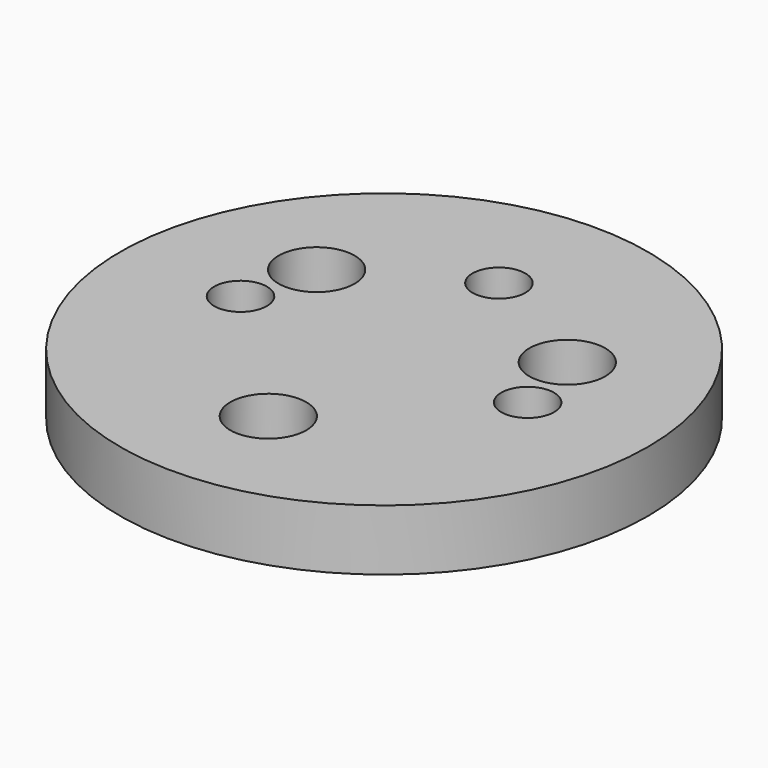
from build123d import *

# Parameters (mm, degrees)
SKETCH_R     = 6.5
SKETCH_R_2   = 0.936276
PAD_DEPTH    = 1.5
SKETCH001_R  = 0.65
POCKET_DEPTH = 5


with BuildPart() as part:
    # Sketch → Pad (new body)
    with BuildSketch(Plane.XY):
        with Locations((0, 3.563724)):
            Circle(SKETCH_R)
        with Locations((-3.086276, 5.345586)):
            Circle(SKETCH_R_2, mode=Mode.SUBTRACT)
        with Locations((3.086276, 5.345586)):
            Circle(SKETCH_R_2, mode=Mode.SUBTRACT)
        Circle(SKETCH_R_2, mode=Mode.SUBTRACT)
    extrude(amount=PAD_DEPTH)

    # Sketch001 (on Face6 of Pad) → Pocket (cut)
    with BuildSketch(Plane.XY.offset(1.5)):
        with Locations((-3.535534, 3.563724)):
            Circle(SKETCH001_R)
        with Locations((0, 7.099258)):
            Circle(SKETCH001_R)
        with Locations((3.535534, 3.563724)):
            Circle(SKETCH001_R)
        Circle(SKETCH001_R)
    extrude(amount=-POCKET_DEPTH, mode=Mode.SUBTRACT)


with BuildPart() as part_1:
    # Body placement: moved
    add(part.part.moved(Location((20, 0, 0))))


solid = part_1.part
